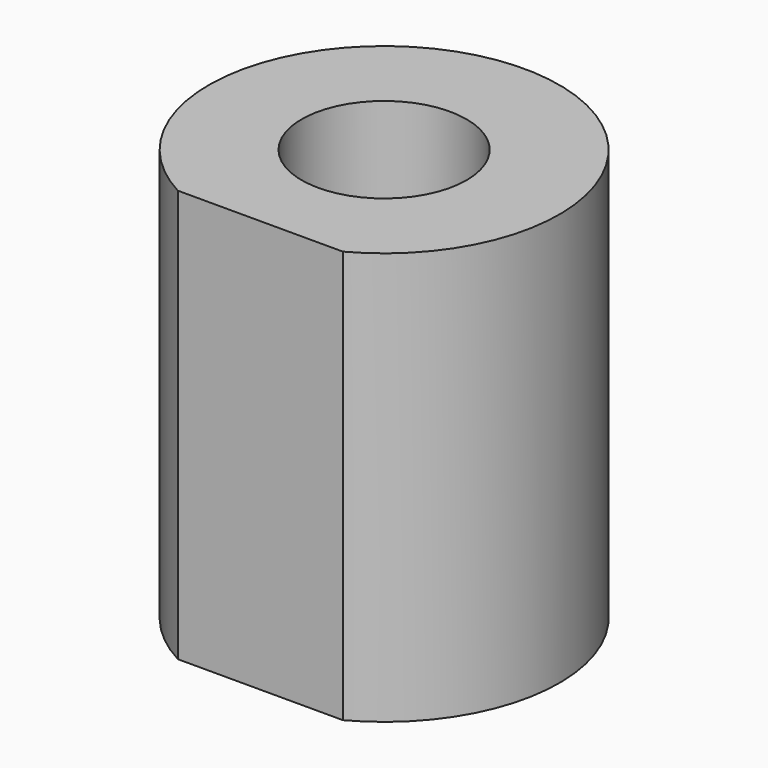
from build123d import *

# Parameters (mm, degrees)
F0_R     = 2
F1_DEPTH = 10


with BuildPart() as f1:
    # F0 (on Top) → F1 (new body)
    with BuildSketch(Plane.XY):
        with BuildLine():
            Line((-2, -3.75), (2, -3.75))
            ThreePointArc((2, -3.75), (0, 4.25), (-2, -3.75))
        make_face()
        Circle(F0_R, mode=Mode.SUBTRACT)
    extrude(amount=F1_DEPTH)


solid = f1.part
